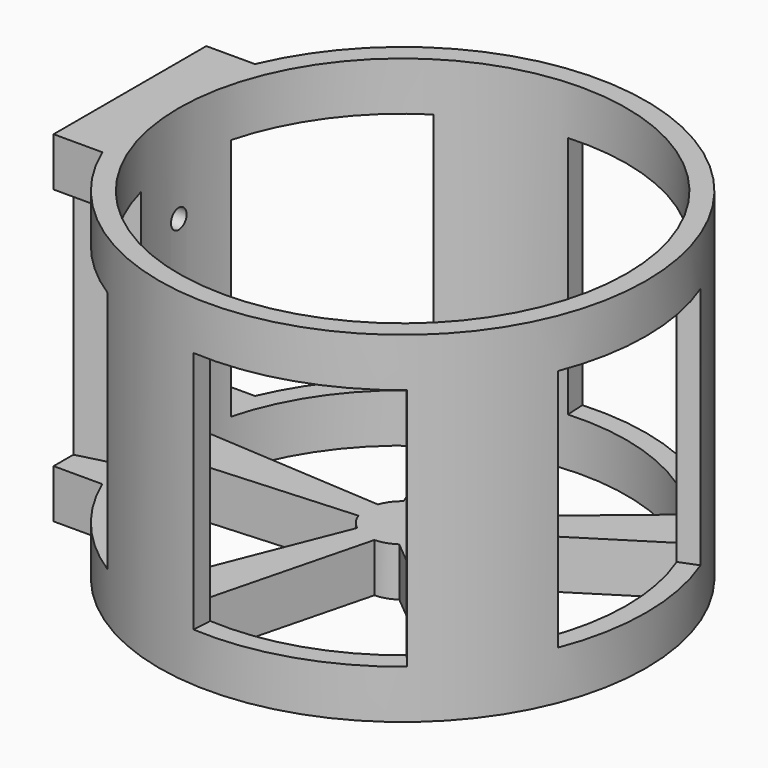
from build123d import *

# Parameters (mm, degrees)
F0_R     = 46
F1_DEPTH = 70
F3_DEPTH = 10
F6_DEPTH = 50
F7_R     = 2
F8_DEPTH = 56.001


with BuildPart() as f1:
    # F0 (on Top) → F1 (new body)
    with BuildSketch(Plane.XY):
        with BuildLine():
            Line((-56, -19.5959179423), (-46, -19.5959179423))
            ThreePointArc((-46, -19.5959179423), (50, 0), (-46, 19.5959179423))
            Line((-46, 19.5959179423), (-56, 19.5959179423))
            Line((-56, 19.5959179423), (-56, -19.5959179423))
        make_face()
        Circle(F0_R, mode=Mode.SUBTRACT)
    extrude(amount=F1_DEPTH)

    # F2 (on face) → F3 (join)
    with BuildSketch(Plane(origin=(0, 0, 0), x_dir=(1, 0, 0), z_dir=(0, 0, -1))):
        with BuildLine():
            ThreePointArc((7.1900771589, -2.1337268918), (7.4221148836, -1.0780587433), (7.5, 0))
            ThreePointArc((7.5, 0), (7.4221148836, 1.0780587433), (7.1900771589, 2.1337268918))
            ThreePointArc((7.1900771589, 2.1337268918), (6.0676274578, 4.4083893922), (4.2511508974, 6.1788118637))
            ThreePointArc((4.2511508974, 6.1788118637), (2.3176274578, 7.1329238722), (0.1925611685, 7.4975276056))
            ThreePointArc((0.1925611685, 7.4975276056), (-2.3176274578, 7.1329238722), (-4.562721413, 5.9524426337))
            ThreePointArc((-4.562721413, 5.9524426337), (-6.0676274578, 4.4083893922), (-7.0710678119, 2.5))
            ThreePointArc((-7.0710678119, 2.5), (-7.5, 0), (-7.0710678119, -2.5))
            ThreePointArc((-7.0710678119, -2.5), (-6.0676274578, -4.4083893922), (-4.562721413, -5.9524426337))
            ThreePointArc((-4.562721413, -5.9524426337), (-2.3176274578, -7.1329238722), (0.1925611685, -7.4975276056))
            ThreePointArc((0.1925611685, -7.4975276056), (2.3176274578, -7.1329238722), (4.2511508975, -6.1788118637))
            ThreePointArc((4.2511508975, -6.1788118637), (6.0676274578, -4.4083893922), (7.1900771589, -2.1337268918))
        make_face()
        with BuildLine():
            ThreePointArc((-7.0710678119, -2.5), (-7.5, 0), (-7.0710678119, 2.5))
            Line((-7.0710678119, 2.5), (-45.7274534607, 5))
            ThreePointArc((-45.7274534607, 5), (-46, 0), (-45.7274534607, -5))
            Line((-45.7274534607, -5), (-7.0710678119, -2.5))
        make_face()
        with BuildLine():
            ThreePointArc((-4.562721413, 5.9524426337), (-2.3176274578, 7.1329238722), (0.1925611685, 7.4975276056))
            Line((0.1925611685, 7.4975276056), (-9.3752776474, 45.0344775593))
            ThreePointArc((-9.3752776474, 45.0344775593), (-14.2147817412, 43.7485997496), (-18.8858428103, 41.9443076155))
            Line((-18.8858428103, 41.9443076155), (-4.562721413, 5.9524426337))
        make_face()
        with BuildLine():
            ThreePointArc((4.2511508974, 6.1788118637), (6.0676274578, 4.4083893922), (7.1900771589, 2.1337268918))
            Line((7.1900771589, 2.1337268918), (39.9332132207, 22.8328377972))
            ThreePointArc((39.9332132207, 22.8328377972), (37.2147817412, 27.0381216055), (34.0553606977, 30.923007741))
            Line((34.0553606977, 30.923007741), (4.2511508974, 6.1788118637))
        make_face()
        with BuildLine():
            Line((39.9332132207, -22.8328377972), (7.1900771589, -2.1337268918))
            ThreePointArc((7.1900771589, -2.1337268918), (6.0676274578, -4.4083893922), (4.2511508975, -6.1788118637))
            Line((4.2511508975, -6.1788118637), (34.0553606977, -30.923007741))
            ThreePointArc((34.0553606977, -30.923007741), (37.2147817413, -27.0381216054), (39.9332132207, -22.8328377972))
        make_face()
        with BuildLine():
            Line((-9.3752776474, -45.0344775593), (0.1925611685, -7.4975276056))
            ThreePointArc((0.1925611685, -7.4975276056), (-2.3176274578, -7.1329238722), (-4.562721413, -5.9524426337))
            Line((-4.562721413, -5.9524426337), (-18.8858428103, -41.9443076155))
            ThreePointArc((-18.8858428103, -41.9443076155), (-14.2147817412, -43.7485997496), (-9.3752776474, -45.0344775593))
        make_face()
    extrude(amount=-F3_DEPTH)

    # F5 (on offset) → F6 (cut)
    with BuildSketch(Plane.XY.offset(10)):
        with BuildLine():
            Line((42.8084260527, 16.8356365753), (42.8084260527, -16.8356365753))
            ThreePointArc((42.8084260527, -16.8356365753), (46, 0), (42.8084260527, 16.8356365753))
        make_face()
        with BuildLine():
            ThreePointArc((42.8084260527, 16.8356365753), (46, 0), (42.8084260527, -16.8356365753))
            Line((42.8084260527, -16.8356365753), (71.2177157402, -28.0084013939))
            ThreePointArc((71.2177157402, -28.0084013939), (76.5273388005, 0), (71.2177157402, 28.0084013939))
            Line((71.2177157402, 28.0084013939), (42.8084260527, 16.8356365753))
        make_face()
        with BuildLine():
            Line((-2.7831107182, 45.9157303626), (29.2401730236, 35.5107347368))
            Line((29.2401730236, 35.5107347368), (48.645057121, 59.0770006144))
            ThreePointArc((48.645057121, 59.0770006144), (23.6482482237, 72.781824241), (-4.6300881924, 76.3871446464))
            Line((-4.6300881924, 76.3871446464), (-2.7831107182, 45.9157303626))
        make_face()
        with BuildLine():
            Line((-44.5284830709, 11.5418454071), (-24.7370052871, 38.7824776081))
            Line((-24.7370052871, 38.7824776081), (-41.1534170548, 64.519995727))
            ThreePointArc((-41.1534170548, 64.519995727), (-61.9119176239, 44.9816411442), (-74.079267614, 19.2014503011))
            Line((-74.079267614, 19.2014503011), (-44.5284830709, 11.5418454071))
        make_face()
        with BuildLine():
            Line((-24.7370052871, -38.7824776081), (-44.5284830709, -11.5418454071))
            Line((-44.5284830709, -11.5418454071), (-74.079267614, -19.2014503011))
            ThreePointArc((-74.079267614, -19.2014503011), (-61.9119176239, -44.9816411442), (-41.1534170548, -64.519995727))
            Line((-41.1534170548, -64.519995727), (-24.7370052871, -38.7824776081))
        make_face()
        with BuildLine():
            Line((29.2401730236, -35.5107347368), (-2.7831107182, -45.9157303626))
            Line((-2.7831107182, -45.9157303626), (-4.6300881924, -76.3871446464))
            ThreePointArc((-4.6300881924, -76.3871446464), (23.6482482237, -72.781824241), (48.645057121, -59.0770006144))
            Line((48.645057121, -59.0770006144), (29.2401730236, -35.5107347368))
        make_face()
    extrude(amount=F6_DEPTH, mode=Mode.SUBTRACT)

    # F7 (on Right) → F8 (cut, through all)
    with BuildSketch(Plane.YZ):
        with Locations((0, 50)):
            Circle(F7_R)
        with Locations((0, 20)):
            Circle(F7_R)
    extrude(amount=-F8_DEPTH, mode=Mode.SUBTRACT)


solid = f1.part
